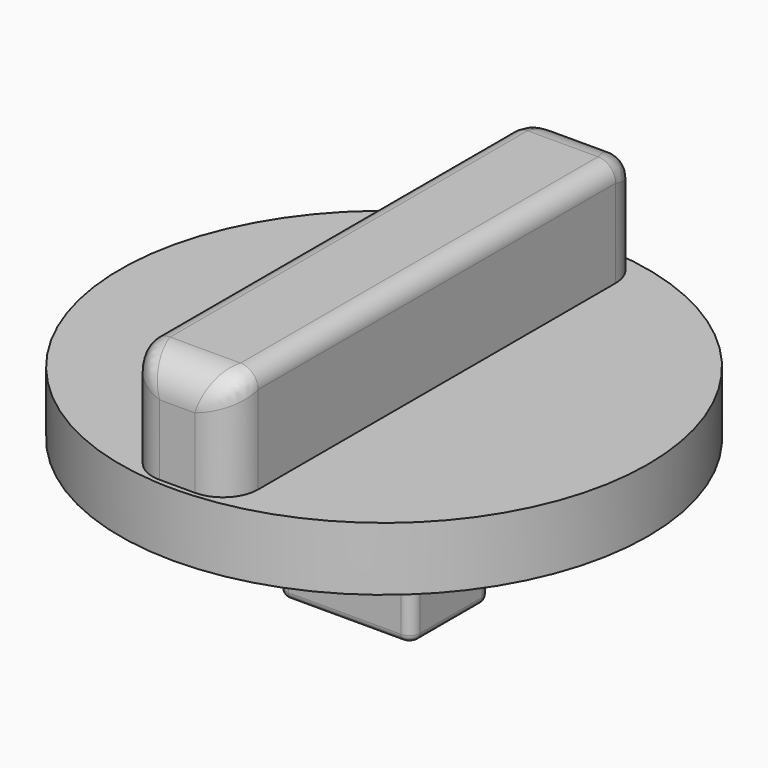
from build123d import *

# Parameters (mm, degrees)
SKETCH008_R     = 7.5
PAD004_DEPTH    = 1.8
SKETCH009_W     = 3
SKETCH009_H     = 14.696938
PAD005_DEPTH    = 3
SKETCH010_R     = 3.2
PAD006_DEPTH    = 1
CHAMFER003_SIZE = 0.5
SKETCH011_W     = 3.8
SKETCH011_H     = 2.8
PAD007_DEPTH    = 3
FILLET004_R     = 0.3
FILLET005_R     = 0.2
FILLET006_R     = 0.5
FILLET_R        = 1
FILLET007_R     = 1


with BuildPart() as part:
    # Sketch008 → Pad004 (new body)
    with BuildSketch(Plane.XY):
        Circle(SKETCH008_R)
    extrude(amount=PAD004_DEPTH)

    # Sketch009 (on Face3 of Pad004) → Pad005 (join)
    with BuildSketch(Plane.XY.offset(1.8)):
        Rectangle(SKETCH009_W, SKETCH009_H)
    extrude(amount=PAD005_DEPTH)

    # Sketch010 → Pad006 (join)
    with BuildSketch(Plane(origin=(0, 0, 0), x_dir=(1, 0, 0), z_dir=(0, 0, -1))):
        Circle(SKETCH010_R)
    extrude(amount=PAD006_DEPTH)

    # Chamfer003
    chamfer003_edges = [part.edges().sort_by_distance(p)[0] for p in [
        (-3.2, 0, -1),
    ]]
    chamfer(chamfer003_edges, length=CHAMFER003_SIZE)

    # Sketch011 (on Face4 of Chamfer003) → Pad007 (join)
    with BuildSketch(Plane(origin=(0, 0, -1), x_dir=(1, 0, 0), z_dir=(0, 0, -1))):
        Rectangle(SKETCH011_W, SKETCH011_H)
    extrude(amount=PAD007_DEPTH)

    # Fillet004
    fillet004_edges = [part.edges().sort_by_distance(p)[0] for p in [
        (-1.9, 1.4, -2.5),
        (-1.9, -1.4, -2.5),
        (1.9, 1.4, -2.5),
        (1.9, -1.4, -2.5),
    ]]
    fillet(fillet004_edges, radius=FILLET004_R)

    # Fillet005
    fillet005_edges = [part.edges().sort_by_distance(p)[0] for p in [
        (0, -1.4, -4),
        (1.812132, -1.312132, -4),
        (1.9, 0, -4),
        (1.812132, 1.312132, -4),
        (0, 1.4, -4),
        (-1.812132, 1.312132, -4),
        (-1.9, 0, -4),
        (-1.812132, -1.312132, -4),
    ]]
    fillet(fillet005_edges, radius=FILLET005_R)

    # Fillet006
    fillet006_edges = [part.edges().sort_by_distance(p)[0] for p in [
        (-1.5, 0, 4.8),
        (1.5, 0, 4.8),
    ]]
    fillet(fillet006_edges, radius=FILLET006_R)

    # Fillet
    fillet_edges = [part.edges().sort_by_distance(p)[0] for p in [
        (-1.5, -7.348469, 3.05),
        (1.5, -7.348469, 3.05),
        (1.353553, -7.348469, 4.653553),
        (0, -7.348469, 4.8),
        (-1.353553, -7.348469, 4.653553),
    ]]
    fillet(fillet_edges, radius=FILLET_R)

    # Fillet007
    fillet007_edges = [part.edges().sort_by_distance(p)[0] for p in [
        (1.5, 7.348469, 3.05),
        (1.353553, 7.348469, 4.653553),
        (0, 7.348469, 4.8),
        (-1.353553, 7.348469, 4.653553),
        (-1.5, 7.348469, 3.05),
    ]]
    fillet(fillet007_edges, radius=FILLET007_R)


solid = part.part
